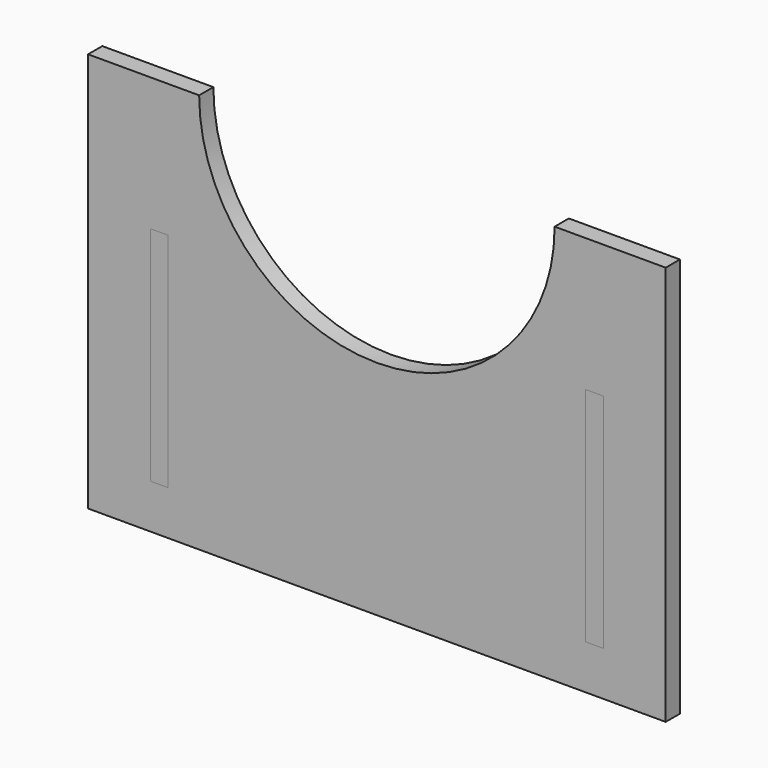
from build123d import *

# Parameters (mm, degrees)
F0_W     = 2
F0_H     = 25
F1_DEPTH = 4
F2_DEPTH = 2


with BuildPart() as f1:
    # F0 (on Front) → F1 (new body)
    with BuildSketch(Plane.XZ):
        with Locations((-26.520908, 17.5)):
            Rectangle(F0_W, F0_H)
        with Locations((22.479092, 17.5)):
            Rectangle(F0_W, F0_H)
    extrude(amount=-F1_DEPTH)


with BuildPart() as f2:
    # F0 (on Front) → F2 (new body)
    with BuildSketch(Plane.XZ):
        with BuildLine():
            Line((-34.520908, 45), (-34.520908, 0))
            Line((-34.520908, 0), (30.479092, 0))
            Line((30.479092, 0), (30.479092, 45))
            Line((30.479092, 45), (17.979092, 45))
            ThreePointArc((17.979092, 45), (-2.020908, 25), (-22.020908, 45))
            Line((-22.020908, 45), (-34.520908, 45))
        make_face()
        with Locations((-26.520908, 17.5)):
            Rectangle(F0_W, F0_H, mode=Mode.SUBTRACT)
        with Locations((22.479092, 17.5)):
            Rectangle(F0_W, F0_H, mode=Mode.SUBTRACT)
    extrude(amount=-F2_DEPTH)


solid = Compound([f1.part, f2.part])
